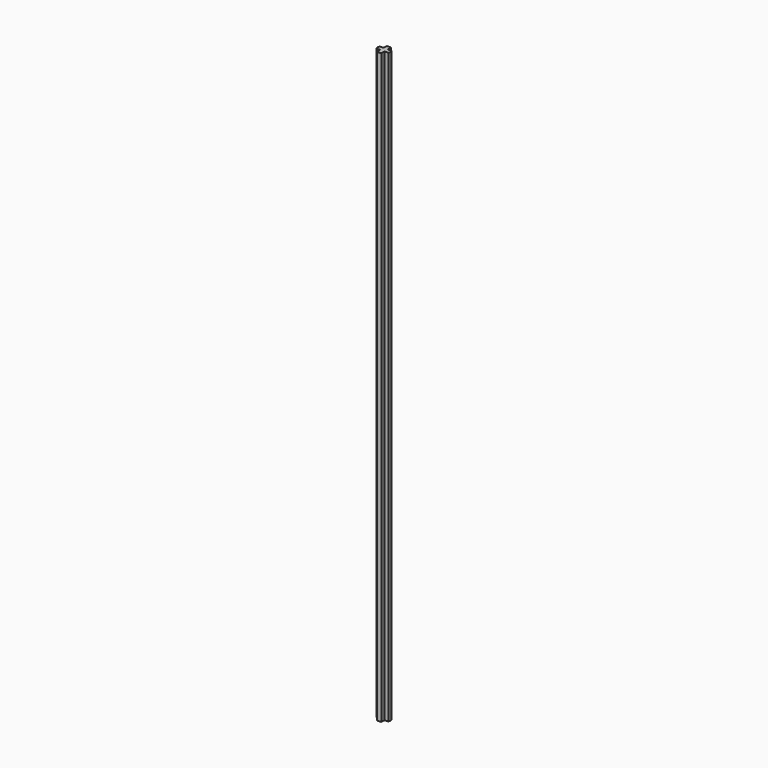
from build123d import *

# Parameters (mm, degrees)
F1_DEPTH = 200


with BuildPart() as f1:
    # F0 (on Top) → F1 (new body)
    with BuildSketch(Plane.XY):
        with BuildLine():
            ThreePointArc((2.024318, -0.724318), (2.118346, -0.367571), (2.15, 0))
            ThreePointArc((2.15, 0), (2.118346, 0.367571), (2.024318, 0.724318))
            Line((2.024318, 0.724318), (0.724318, 0.724318))
            Line((0.724318, 0.724318), (0.724318, 2.024318))
            ThreePointArc((0.724318, 2.024318), (0, 2.15), (-0.724318, 2.024318))
            Line((-0.724318, 2.024318), (-0.724318, 0.724318))
            Line((-0.724318, 0.724318), (-2.024318, 0.724318))
            ThreePointArc((-2.024318, 0.724318), (-2.15, 0), (-2.024318, -0.724318))
            Line((-2.024318, -0.724318), (-0.724318, -0.724318))
            Line((-0.724318, -0.724318), (-0.724318, -2.024318))
            ThreePointArc((-0.724318, -2.024318), (0, -2.15), (0.724318, -2.024318))
            Line((0.724318, -2.024318), (0.724318, -0.724318))
            Line((0.724318, -0.724318), (2.024318, -0.724318))
        make_face()
    extrude(amount=F1_DEPTH)


solid = f1.part
